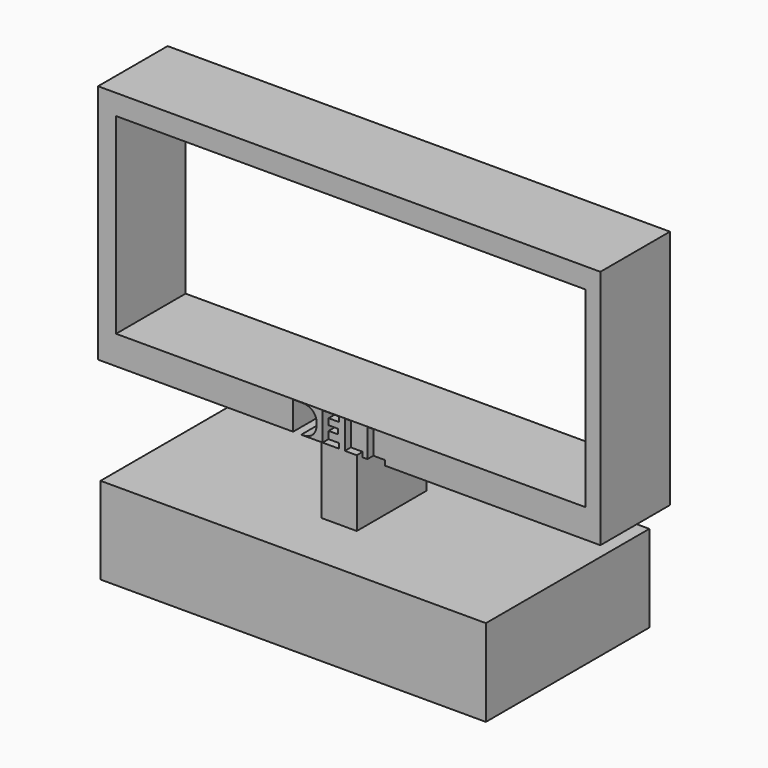
from build123d import *

# Parameters (mm, degrees)
F1_DEPTH = 25.4
F2_W     = 112.5839874148
F2_H     = 59.678832376
F2_W_2   = 10.3495540097
F2_H_2   = 25.4
F3_DEPTH = 25.4


with BuildPart() as f1:
    # F0 (on Front) → F1 (new body)
    with BuildSketch(Plane.XZ):
        with BuildLine():
            Line((76.0294124484, 65.8097714186), (-68.5989558697, 65.8097714186))
            Line((-68.5989558697, 65.8097714186), (-70.7219392061, 65.8097714186))
            Line((-70.7219392061, 65.8097714186), (-70.7219392061, 11.1429076642))
            Line((-70.7219392061, 11.1429076642), (-70.7219392061, 7.1623111144))
            Line((-70.7219392061, 7.1623111144), (-70.7219392061, -4.514107015))
            Line((-70.7219392061, -4.514107015), (-14.7812860087, -4.514107015))
            Line((-14.7812860087, -4.514107015), (-13.7367175863, -4.514107015))
            Line((-13.7367175863, -4.514107015), (-13.7367175863, 3.7861245011))
            Line((-13.7367175863, 3.7861245011), (-11.131654773, 3.7861245011))
            add(Edge.make_bspline(
                [(-11.131654773, 3.7861245011), (-9.098833791, 3.7861245011), (-7.9743331764, 2.7133981474)],
                knots=[0, 0, 0, 1, 1, 1], degree=2))
            add(Edge.make_bspline(
                [(-7.9743331764, 2.7133981474), (-6.8498325617, 1.6406717936), (-6.8498325617, -0.284967385)],
                knots=[0, 0, 0, 1, 1, 1], degree=2))
            add(Edge.make_bspline(
                [(-6.8498325617, -0.284967385), (-6.8498325617, -2.3341381335), (-8.0170242336, -3.4241225743)],
                knots=[0, 0, 0, 1, 1, 1], degree=2))
            add(Edge.make_bspline(
                [(-8.0170242336, -3.4241225743), (-9.1842159056, -4.514107015), (-11.3859844758, -4.514107015)],
                knots=[0, 0, 0, 1, 1, 1], degree=2))
            Line((-11.3859844758, -4.514107015), (-8.0938804895, -4.514107015))
            Line((-8.0938804895, -4.514107015), (-5.4932283238, -4.514107015))
            Line((-5.4932283238, -4.514107015), (-5.1294737861, -4.514107015))
            Line((-5.1294737861, -4.514107015), (-5.1294737861, 3.7861245011))
            Line((-5.1294737861, 3.7861245011), (-0.3498920135, 3.7861245011))
            Line((-0.3498920135, 3.7861245011), (-0.3498920135, 2.3437117579))
            Line((-0.3498920135, 2.3437117579), (-3.3691489143, 2.3437117579))
            Line((-3.3691489143, 2.3437117579), (-3.3691489143, 0.5216211011))
            Line((-3.3691489143, 0.5216211011), (-0.558805698, 0.5216211011))
            Line((-0.558805698, 0.5216211011), (-0.558805698, -0.9207916421))
            Line((-0.558805698, -0.9207916421), (-3.3691489143, -0.9207916421))
            Line((-3.3691489143, -0.9207916421), (-3.3691489143, -3.0607944274))
            Line((-3.3691489143, -3.0607944274), (-0.3498920135, -3.0607944274))
            Line((-0.3498920135, -3.0607944274), (-0.3498920135, -4.514107015))
            Line((-0.3498920135, -4.514107015), (1.3813666065, -4.514107015))
            Line((1.3813666065, -4.514107015), (1.3813666065, 3.7861245011))
            Line((1.3813666065, 3.7861245011), (3.1416914783, 3.7861245011))
            Line((3.1416914783, 3.7861245011), (3.1416914783, -3.0607944274))
            Line((3.1416914783, -3.0607944274), (6.5079267593, -3.0607944274))
            Line((6.5079267593, -3.0607944274), (6.5079267593, -4.514107015))
            Line((6.5079267593, -4.514107015), (7.9503395026, -4.514107015))
            Line((7.9503395026, -4.514107015), (7.9503395026, 3.7861245011))
            Line((7.9503395026, 3.7861245011), (9.7106643743, 3.7861245011))
            Line((9.7106643743, 3.7861245011), (9.7106643743, -3.0607944274))
            Line((9.7106643743, -3.0607944274), (13.0768996554, -3.0607944274))
            Line((13.0768996554, -3.0607944274), (13.0768996554, -4.514107015))
            Line((13.0768996554, -4.514107015), (13.8308055602, -4.514107015))
            Line((13.8308055602, -4.514107015), (76.0294124484, -4.514107015))
            Line((76.0294124484, -4.514107015), (76.0294124484, 65.8097714186))
        make_face()
        Polygon((-65.4675588012, 3.8569734897), (-65.4675588012, 59.8507076502), (71.7303529382, 59.8507076502), (71.7303529382, 3.8569734897), (68.5458853841, 3.8569734897), align=None, mode=Mode.SUBTRACT)
        Polygon((4.856325686, -24.0072049201), (4.856325686, -4.514107015), (1.3813666065, -4.514107015), (-0.3498920135, -4.514107015), (-5.1294737861, -4.514107015), (-5.4932283238, -4.514107015), (-5.4932283238, -24.0072049201), align=None)
    extrude(amount=F1_DEPTH)


with BuildPart() as f3:
    # F2 (on face) → F3 (new body)
    with BuildSketch(Plane(origin=(0, 0, -24.0072049201), x_dir=(1, 0, 0), z_dir=(0, 0, -1))):
        with Locations((0, 12.7)):
            Rectangle(F2_W, F2_H)
        with Locations((-0.3184513189, 12.7)):
            Rectangle(F2_W_2, F2_H_2, mode=Mode.SUBTRACT)
    extrude(amount=F3_DEPTH)


solid = Compound([f1.part, f3.part])
